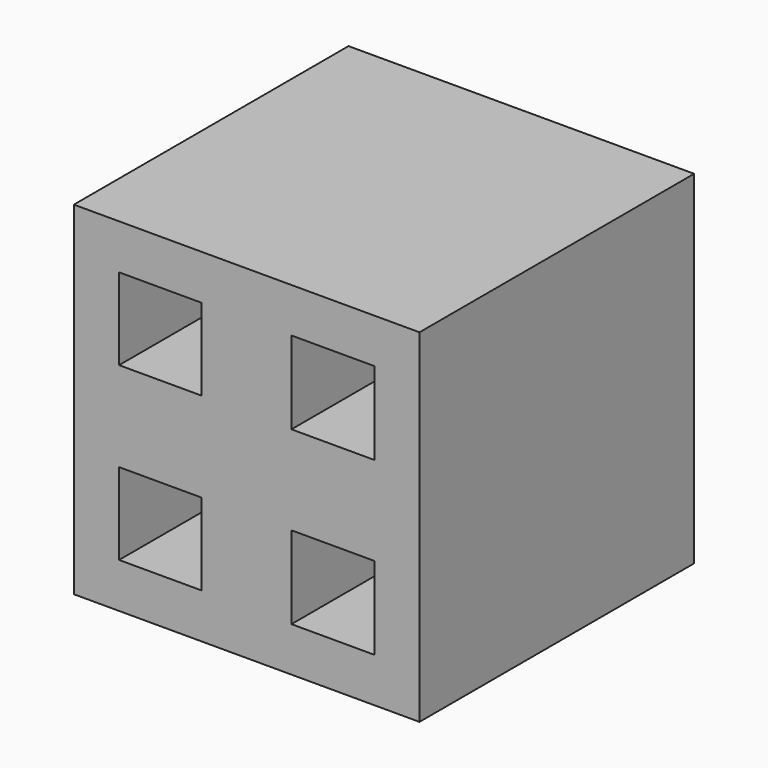
from build123d import *

# Parameters (mm, degrees)
F1_DEPTH = 75.946


with BuildPart() as f1:
    # F0 (on Front) → F1 (new body, symmetric)
    with BuildSketch(Plane.XZ):
        Polygon((76.458305, 75.877115), (-76.458305, 75.877115), (-56.450146, 56.021046), (-20.00816, 56.021046), (-20.00816, 19.85607), (0, 0), (19.80776, 19.657193), (19.80776, 56.219922), (56.650545, 56.219922), align=None)
        Polygon((-56.450146, 56.021046), (-76.458305, 75.877115), (-76.458305, -75.877115), (-56.451009, -56.021903), (-56.451009, -19.855212), (-20.007296, -19.855212), (0, 0), (-20.00816, 19.85607), (-56.450146, 19.85607), align=None)
        Polygon((-56.451009, -56.021903), (-76.458305, -75.877115), (76.458305, -75.877115), (56.650545, -56.219922), (19.80776, -56.219922), (19.80776, -19.657193), (0, 0), (-20.007296, -19.855212), (-20.007296, -56.021903), align=None)
        Polygon((76.458305, -75.877115), (76.458305, 75.877115), (56.650545, 56.219922), (56.650545, 19.657193), (19.80776, 19.657193), (0, 0), (19.80776, -19.657193), (56.650545, -19.657193), (56.650545, -56.219922), align=None)
    extrude(amount=F1_DEPTH, both=True)


solid = f1.part
